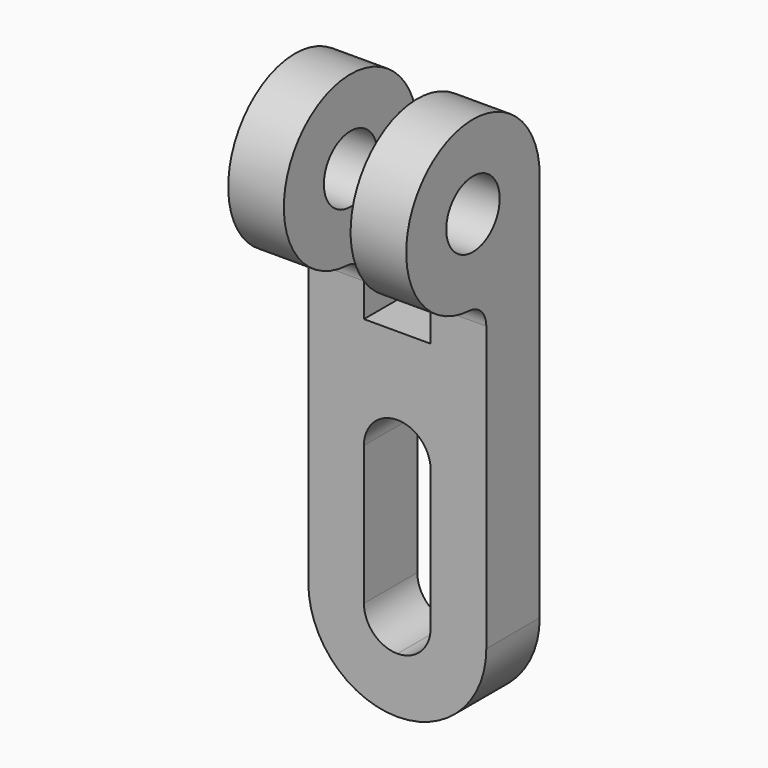
from build123d import *

# Parameters (mm, degrees)
F1_DEPTH = 12
F2_R     = 6
F3_DEPTH = 32
F4_W     = 12
F4_H     = 27
F4_H_2   = 25
F5_DEPTH = 30.001


with BuildPart() as f1:
    # F0 (on Front) → F1 (new body)
    with BuildSketch(Plane.XZ):
        with BuildLine():
            Line((-16, 45), (-16, 0))
            ThreePointArc((-16, 0), (-11.313708, -11.313708), (0, -16))
            ThreePointArc((0, -16), (11.313708, -11.313708), (16, 0))
            Line((16, 0), (16, 45))
            Line((16, 45), (-16, 45))
        make_face()
        with BuildLine():
            ThreePointArc((0, -6), (-4.242641, -4.242641), (-6, 0))
            Line((-6, 0), (-6, 25))
            ThreePointArc((-6, 25), (-4.242641, 29.242641), (0, 31))
            ThreePointArc((0, 31), (4.242641, 29.242641), (6, 25))
            Line((6, 25), (6, 0))
            ThreePointArc((6, 0), (4.242641, -4.242641), (0, -6))
        make_face(mode=Mode.SUBTRACT)
    extrude(amount=F1_DEPTH)

    # F2 (on face) → F3 (join)
    with BuildSketch(Plane.YZ.offset(16)):
        with BuildLine():
            Line((0, 45), (0, 70))
            ThreePointArc((0, 70), (-25.323708, 80.882144), (-15.789474, 55.02079))
            ThreePointArc((-15.789474, 55.02079), (-13.098095, 53.779323), (-12, 51.026334))
            Line((-12, 51.026334), (-12, 45))
            Line((-12, 45), (0, 45))
        make_face()
        with Locations((-15, 70)):
            Circle(F2_R, mode=Mode.SUBTRACT)
    extrude(amount=-F3_DEPTH)

    # F4 (on face) → F5 (cut, through all)
    with BuildSketch(Plane(origin=(0, 0, 0), x_dir=(-1, 0, 0), z_dir=(0, 1, 0))):
        with Locations((0, 83.5)):
            Rectangle(F4_W, F4_H)
        with Locations((0, 57.5)):
            Rectangle(F4_W, F4_H_2)
    extrude(amount=-F5_DEPTH, mode=Mode.SUBTRACT)


solid = f1.part
